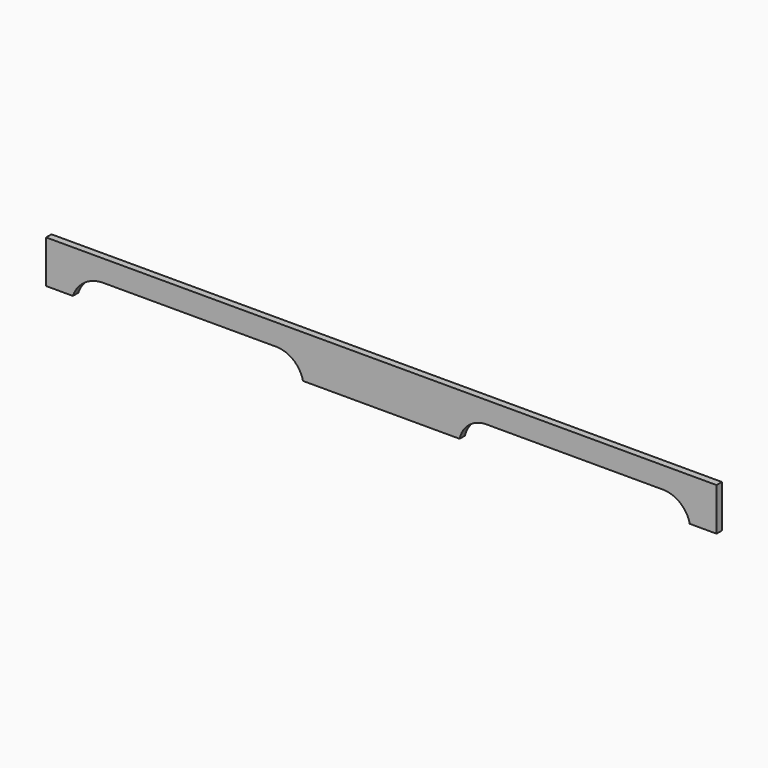
from build123d import *

# Parameters (mm, degrees)
F0_W     = 1590.675
F0_H     = 101.6
F1_DEPTH = 16
F2_W     = 410.9626214183
F2_H     = 50.8
F2_W_2   = 419.1
F3_DEPTH = 25.4


with BuildPart() as f1:
    # F0 (on Front) → F1 (new body)
    with BuildSketch(Plane.XZ):
        with Locations((18.1653643548, -22.8088884252)):
            Rectangle(F0_W, F0_H)
    extrude(amount=F1_DEPTH)

    # F2 (on face) → F3 (cut)
    with BuildSketch(Plane.XZ.offset(16)):
        with BuildLine():
            Line((-642.0347570634, -73.6088884252), (-642.0347570634, -22.8088884252))
            ThreePointArc((-642.0347570634, -22.8088884252), (-685.9453309895, -36.797837184), (-713.6721356452, -73.6088884252))
            Line((-713.6721356452, -73.6088884252), (-642.0347570634, -73.6088884252))
        make_face()
        with Locations((-436.5534463543, -48.2088884252)):
            Rectangle(F2_W, F2_H)
        with BuildLine():
            Line((-231.0721356452, -73.6088884252), (-167.5721356452, -73.6088884252))
            ThreePointArc((-167.5721356452, -73.6088884252), (-190.4122967375, -37.0715897906), (-231.0721356452, -22.8088884252))
            Line((-231.0721356452, -22.8088884252), (-231.0721356452, -73.6088884252))
        make_face()
        with BuildLine():
            ThreePointArc((267.4028643548, -22.8088884252), (226.7430254472, -37.0715897906), (203.9028643548, -73.6088884252))
            Line((203.9028643548, -73.6088884252), (267.4028643548, -73.6088884252))
            Line((267.4028643548, -73.6088884252), (267.4028643548, -22.8088884252))
        make_face()
        with Locations((476.9528643548, -48.2088884252)):
            Rectangle(F2_W_2, F2_H)
        with BuildLine():
            ThreePointArc((750.0028643548, -73.6088884252), (727.1627032625, -37.0715897906), (686.5028643548, -22.8088884252))
            Line((686.5028643548, -22.8088884252), (686.5028643548, -73.6088884252))
            Line((686.5028643548, -73.6088884252), (750.0028643548, -73.6088884252))
        make_face()
    extrude(amount=-F3_DEPTH, mode=Mode.SUBTRACT)


solid = f1.part
